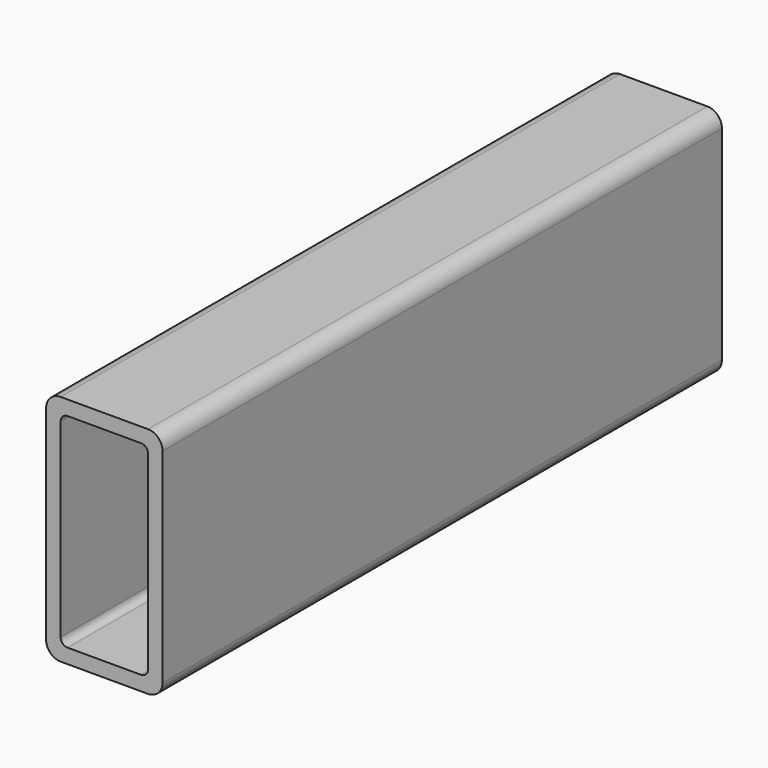
from build123d import *

# Parameters (mm, degrees)
F0_W     = 25.4
F0_H     = 50.8
F0_W_2   = 19.05
F0_H_2   = 44.45
F1_DEPTH = 152.4
F2_R     = 3.175
F3_R     = 1.524


with BuildPart() as f1:
    # F0 (on Front) → F1 (new body)
    with BuildSketch(Plane.XZ):
        with Locations((-6.305698, 2.473545)):
            Rectangle(F0_W, F0_H)
        with Locations((-6.305698, 2.473545)):
            Rectangle(F0_W_2, F0_H_2, mode=Mode.SUBTRACT)
    extrude(amount=F1_DEPTH)

    # F2
    f2_edges = [f1.edges().sort_by_distance(p)[0] for p in [
        (-19.005698, -76.2, 27.873545),
        (6.394302, -76.2, 27.873545),
        (-19.005698, -76.2, -22.926455),
        (6.394302, -76.2, -22.926455),
    ]]
    fillet(f2_edges, radius=F2_R)

    # F3
    f3_edges = [f1.edges().sort_by_distance(p)[0] for p in [
        (-15.830698, -76.2, 24.698545),
        (3.219302, -76.2, 24.698545),
        (3.219302, -76.2, -19.751455),
        (-15.830698, -76.2, -19.751455),
    ]]
    fillet(f3_edges, radius=F3_R)


solid = f1.part
